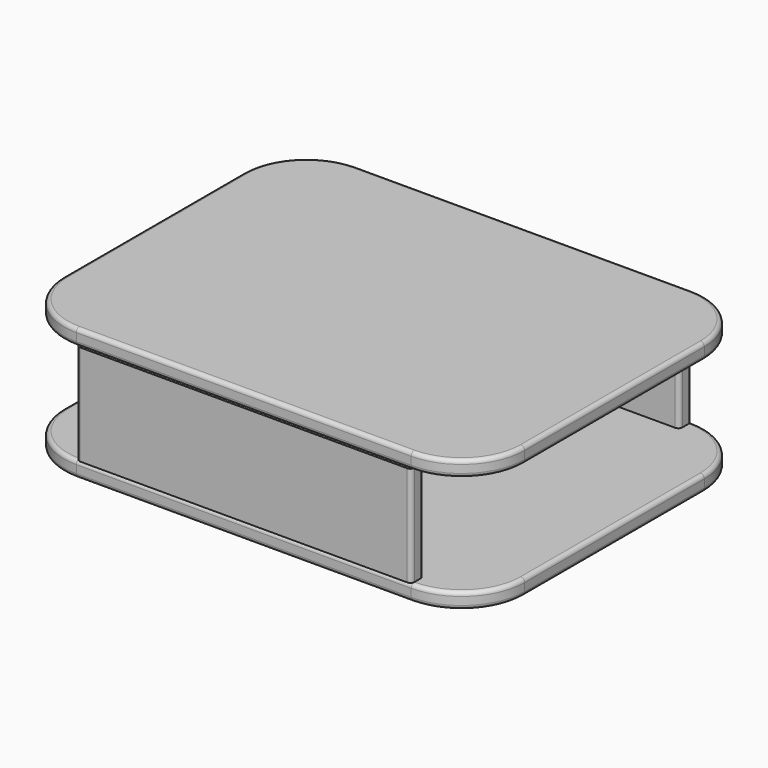
from build123d import *

# Parameters (mm, degrees)
F1_DEPTH = 12.7
F2_W     = 269.875
F2_H     = 12.7
F3_DEPTH = 80.9625
F5_R     = 3.175
F5_2_R   = 3.175
F5_3_R   = 3.175
F5_4_R   = 3.175


with BuildPart() as f1:
    # F0 (on Top) → F1 (new body)
    with BuildSketch(Plane.XY):
        with BuildLine():
            Line((-134.9375, -141.2875), (134.9375, -141.2875))
            ThreePointArc((134.9375, -141.2875), (170.8585244843, -126.4085244843), (185.7375, -90.4875))
            Line((185.7375, -90.4875), (185.7375, 90.4875))
            ThreePointArc((185.7375, 90.4875), (170.8585244843, 126.4085244843), (134.9375, 141.2875))
            Line((134.9375, 141.2875), (-134.9375, 141.2875))
            ThreePointArc((-134.9375, 141.2875), (-170.8585244843, 126.4085244843), (-185.7375, 90.4875))
            Line((-185.7375, 90.4875), (-185.7375, -90.4875))
            ThreePointArc((-185.7375, -90.4875), (-170.8585244843, -126.4085244843), (-134.9375, -141.2875))
        make_face()
    extrude(amount=F1_DEPTH)


with BuildPart() as f3:
    # F2 (on face) → F3 (new body)
    with BuildSketch(Plane.XY.offset(12.7)):
        with Locations((0, 134.9375)):
            Rectangle(F2_W, F2_H)
    extrude(amount=F3_DEPTH)

    # F5#4
    f5_4_edges = [f3.edges().sort_by_distance(p)[0] for p in [
        (134.9375, 141.2875, 53.18125),
        (134.9375, 128.5875, 53.18125),
        (-134.9375, 141.2875, 53.18125),
        (-134.9375, 128.5875, 53.18125),
    ]]
    fillet(f5_4_edges, radius=F5_4_R)


with BuildPart() as f3b:
    # F2 (on face) → F3, piece 2 (new body)
    with BuildSketch(Plane.XY.offset(12.7)):
        with Locations((0, -134.9375)):
            Rectangle(F2_W, F2_H)
    extrude(amount=F3_DEPTH)

    # F5#3
    f5_3_edges = [f3b.edges().sort_by_distance(p)[0] for p in [
        (-134.9375, -141.2875, 53.18125),
        (134.9375, -141.2875, 53.18125),
        (134.9375, -128.5875, 53.18125),
    ]]
    fillet(f5_3_edges, radius=F5_3_R)


with BuildPart() as f4_1:
    # F4: copy of F1
    add(f1.part.moved(Location((0, 0, 93.6625))))

    # F5
    f5_edges = [f4_1.edges().sort_by_distance(p)[0] for p in [
        (0, -141.2875, 106.3625),
        (-170.858524, -126.408524, 93.6625),
    ]]
    fillet(f5_edges, radius=F5_R)


with BuildPart() as f1_1:
    add(f1.part)

    # F5#2
    f5_2_edges = [f1_1.edges().sort_by_distance(p)[0] for p in [
        (0, -141.2875, 0),
        (-170.858524, -126.408524, 12.7),
    ]]
    fillet(f5_2_edges, radius=F5_2_R)


solid = Compound([f3.part, f3b.part, f4_1.part, f1_1.part])
